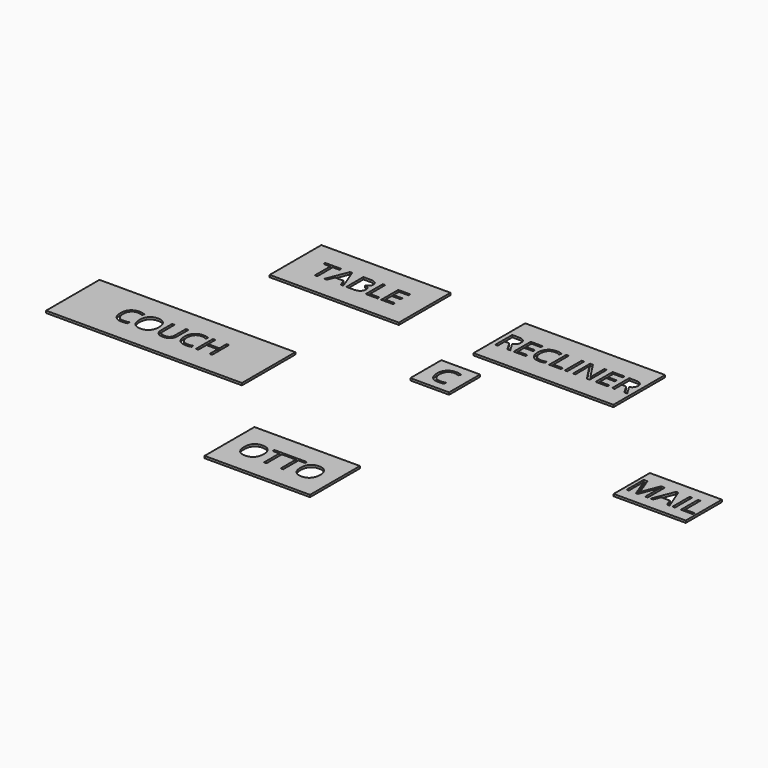
from build123d import *

# Parameters (mm, degrees)
F0_W     = 1524
F0_H     = 762
F1_DEPTH = 25.4
F0_W_2   = 1651
F0_W_3   = 29.26953125
F0_H_2   = 251.8502604167
F0_W_4   = 457.2
F0_H_3   = 457.2
F0_W_5   = 2311.4
F0_H_4   = 787.4
F0_W_6   = 1244.6
F0_H_5   = 736.6
F0_W_7   = 850.9
F0_H_6   = 533.4


with BuildPart() as f1:
    # F0 (on Top) → F1 (new body)
    with BuildSketch(Plane.XY):
        with Locations((-1647.601688385, 1585.1197662354)):
            Rectangle(F0_W, F0_H)
        Polygon((-2049.4927474128, 1683.9526655409), (-2049.4927474128, 1458.1197662354), (-2078.7622786628, 1458.1197662354), (-2078.7622786628, 1683.9526655409), (-2158.5231293572, 1683.9526655409), (-2158.5231293572, 1709.970026652), (-1969.7318967183, 1709.970026652), (-1969.7318967183, 1683.9526655409), align=None, mode=Mode.SUBTRACT)
        Polygon((-1743.1824175517, 1458.1197662354), (-1773.4992578295, 1458.1197662354), (-1804.863407135, 1538.2113460965), (-1905.7909244961, 1538.2113460965), (-1936.7692231072, 1458.1197662354), (-1966.4246050517, 1458.1197662354), (-1866.875125885, 1711.0173356798), (-1842.2358029683, 1711.0173356798), align=None, mode=Mode.SUBTRACT)
        with BuildLine():
            Line((-1708.5660981072, 1458.1197662354), (-1708.5660981072, 1709.970026652))
            Line((-1708.5660981072, 1709.970026652), (-1637.4042057461, 1709.970026652))
            add(Edge.make_bspline(
                [(-1637.4042057461, 1709.970026652), (-1587.2987369961, 1709.970026652), (-1564.8918359545, 1694.9769710965)],
                knots=[0, 0, 0, 1, 1, 1], degree=2))
            add(Edge.make_bspline(
                [(-1564.8918359545, 1694.9769710965), (-1542.4849349128, 1679.9839155409), (-1542.4849349128, 1647.6275787354)],
                knots=[0, 0, 0, 1, 1, 1], degree=2))
            add(Edge.make_bspline(
                [(-1542.4849349128, 1647.6275787354), (-1542.4849349128, 1625.1931169298), (-1554.9699609545, 1610.6410335965)],
                knots=[0, 0, 0, 1, 1, 1], degree=2))
            add(Edge.make_bspline(
                [(-1554.9699609545, 1610.6410335965), (-1567.4549869961, 1596.0889502631), (-1591.4328515795, 1591.7894710965)],
                knots=[0, 0, 0, 1, 1, 1], degree=2))
            Line((-1591.4328515795, 1591.7894710965), (-1591.4328515795, 1590.0807037354))
            add(Edge.make_bspline(
                [(-1591.4328515795, 1590.0807037354), (-1534.0513411628, 1580.2690717909), (-1534.0513411628, 1529.7777523465)],
                knots=[0, 0, 0, 1, 1, 1], degree=2))
            add(Edge.make_bspline(
                [(-1534.0513411628, 1529.7777523465), (-1534.0513411628, 1496.0433773465), (-1556.8716536628, 1477.0815717909)],
                knots=[0, 0, 0, 1, 1, 1], degree=2))
            add(Edge.make_bspline(
                [(-1556.8716536628, 1477.0815717909), (-1579.6919661628, 1458.1197662354), (-1620.7023828295, 1458.1197662354)],
                knots=[0, 0, 0, 1, 1, 1], degree=2))
            Line((-1620.7023828295, 1458.1197662354), (-1708.5660981072, 1458.1197662354))
        make_face(mode=Mode.SUBTRACT)
        Polygon((-1339.5825911628, 1458.1197662354), (-1479.9771224128, 1458.1197662354), (-1479.9771224128, 1709.970026652), (-1450.7075911628, 1709.970026652), (-1450.7075911628, 1484.6332210965), (-1339.5825911628, 1484.6332210965), align=None, mode=Mode.SUBTRACT)
        Polygon((-1156.468875885, 1484.3024919298), (-1156.468875885, 1458.1197662354), (-1296.863407135, 1458.1197662354), (-1296.863407135, 1709.970026652), (-1156.468875885, 1709.970026652), (-1156.468875885, 1683.9526655409), (-1267.593875885, 1683.9526655409), (-1267.593875885, 1602.813776652), (-1163.1937022739, 1602.813776652), (-1163.1937022739, 1576.9617801242), (-1267.593875885, 1576.9617801242), (-1267.593875885, 1484.3024919298), align=None, mode=Mode.SUBTRACT)
    extrude(amount=F1_DEPTH)


with BuildPart() as f1b:
    # F0 (on Top) → F1, piece 2 (new body)
    with BuildSketch(Plane.XY):
        with Locations((857.9120223522, 1539.6015224457)):
            Rectangle(F0_W_2, F0_H)
        with BuildLine():
            Line((166.7156247828, 1517.3324252235), (114.1296872828, 1517.3324252235))
            Line((114.1296872828, 1517.3324252235), (114.1296872828, 1412.6015224457))
            Line((114.1296872828, 1412.6015224457), (84.8601560328, 1412.6015224457))
            Line((84.8601560328, 1412.6015224457), (84.8601560328, 1664.4517828623))
            Line((84.8601560328, 1664.4517828623), (153.9274303383, 1664.4517828623))
            add(Edge.make_bspline(
                [(153.9274303383, 1664.4517828623), (200.2846351994, 1664.4517828623), (222.4159286022, 1646.7026509179)],
                knots=[0, 0, 0, 1, 1, 1], degree=2))
            add(Edge.make_bspline(
                [(222.4159286022, 1646.7026509179), (244.547222005, 1628.9535189735), (244.547222005, 1593.2898905012)],
                knots=[0, 0, 0, 1, 1, 1], degree=2))
            add(Edge.make_bspline(
                [(244.547222005, 1593.2898905012), (244.547222005, 1543.3497863346), (193.8905379772, 1525.7660189735)],
                knots=[0, 0, 0, 1, 1, 1], degree=2))
            Line((193.8905379772, 1525.7660189735), (262.2963539494, 1412.6015224457))
            Line((262.2963539494, 1412.6015224457), (227.680034505, 1412.6015224457))
            Line((227.680034505, 1412.6015224457), (166.7156247828, 1517.3324252235))
        make_face(mode=Mode.SUBTRACT)
        Polygon((443.3154511717, 1438.7842481401), (443.3154511717, 1412.6015224457), (302.9209199217, 1412.6015224457), (302.9209199217, 1664.4517828623), (443.3154511717, 1664.4517828623), (443.3154511717, 1638.4344217512), (332.1904511717, 1638.4344217512), (332.1904511717, 1557.2955328623), (436.5906247828, 1557.2955328623), (436.5906247828, 1531.4435363346), (332.1904511717, 1531.4435363346), (332.1904511717, 1438.7842481401), align=None, mode=Mode.SUBTRACT)
        with BuildLine():
            add(Edge.make_bspline(
                [(664.1322914494, 1628.4574252235), (635.5242185328, 1641.8519564735), (606.9161456161, 1641.8519564735)],
                knots=[0, 0, 0, 1, 1, 1], degree=2))
            add(Edge.make_bspline(
                [(606.9161456161, 1641.8519564735), (565.4096351994, 1641.8519564735), (541.3766490883, 1614.2085102929)],
                knots=[0, 0, 0, 1, 1, 1], degree=2))
            add(Edge.make_bspline(
                [(541.3766490883, 1614.2085102929), (517.3436629772, 1586.5650641123), (517.3436629772, 1538.4990918901)],
                knots=[0, 0, 0, 1, 1, 1], degree=2))
            add(Edge.make_bspline(
                [(517.3436629772, 1538.4990918901), (517.3436629772, 1489.1102030012), (540.5222654078, 1462.128215154)],
                knots=[0, 0, 0, 1, 1, 1], degree=2))
            add(Edge.make_bspline(
                [(540.5222654078, 1462.128215154), (563.7008678383, 1435.1462273068), (606.5854164494, 1435.1462273068)],
                knots=[0, 0, 0, 1, 1, 1], degree=2))
            add(Edge.make_bspline(
                [(606.5854164494, 1435.1462273068), (632.9335067272, 1435.1462273068), (666.723003255, 1444.6271300846)],
                knots=[0, 0, 0, 1, 1, 1], degree=2))
            Line((666.723003255, 1444.6271300846), (666.723003255, 1418.9956196679))
            add(Edge.make_bspline(
                [(666.723003255, 1418.9956196679), (640.5402775606, 1409.1288661957), (602.1205726994, 1409.1288661957)],
                knots=[0, 0, 0, 1, 1, 1], degree=2))
            add(Edge.make_bspline(
                [(602.1205726994, 1409.1288661957), (546.5029511717, 1409.1288661957), (516.2687931856, 1442.9183627235)],
                knots=[0, 0, 0, 1, 1, 1], degree=2))
            add(Edge.make_bspline(
                [(516.2687931856, 1442.9183627235), (486.0346351994, 1476.7078592512), (486.0346351994, 1538.8849425846)],
                knots=[0, 0, 0, 1, 1, 1], degree=2))
            add(Edge.make_bspline(
                [(486.0346351994, 1538.8849425846), (486.0346351994, 1577.8007411957), (500.5867185328, 1607.0702724457)],
                knots=[0, 0, 0, 1, 1, 1], degree=2))
            add(Edge.make_bspline(
                [(500.5867185328, 1607.0702724457), (515.1388018661, 1636.3398036957), (542.6168834633, 1652.1872429318)],
                knots=[0, 0, 0, 1, 1, 1], degree=2))
            add(Edge.make_bspline(
                [(542.6168834633, 1652.1872429318), (570.0949650606, 1668.0346821679), (607.3019963106, 1668.0346821679)],
                knots=[0, 0, 0, 1, 1, 1], degree=2))
            add(Edge.make_bspline(
                [(607.3019963106, 1668.0346821679), (646.879253255, 1668.0346821679), (676.5346351994, 1653.5928418901)],
                knots=[0, 0, 0, 1, 1, 1], degree=2))
            Line((676.5346351994, 1653.5928418901), (664.1322914494, 1628.4574252235))
        make_face(mode=Mode.SUBTRACT)
        Polygon((862.0736976994, 1412.6015224457), (721.6791664494, 1412.6015224457), (721.6791664494, 1664.4517828623), (750.9486976994, 1664.4517828623), (750.9486976994, 1439.1149773068), (862.0736976994, 1439.1149773068), align=None, mode=Mode.SUBTRACT)
        with Locations((919.4276473522, 1538.526652654)):
            Rectangle(F0_W_3, F0_H_2, mode=Mode.SUBTRACT)
        with BuildLine():
            Line((1199.8584199217, 1664.4517828623), (1199.8584199217, 1412.6015224457))
            Line((1199.8584199217, 1412.6015224457), (1166.4547740883, 1412.6015224457))
            Line((1166.4547740883, 1412.6015224457), (1028.8163192272, 1623.9374599457))
            Line((1028.8163192272, 1623.9374599457), (1027.4382810328, 1623.9374599457))
            add(Edge.make_bspline(
                [(1027.4382810328, 1623.9374599457), (1030.1943574217, 1586.7304286957), (1030.1943574217, 1555.7521300846)],
                knots=[0, 0, 0, 1, 1, 1], degree=2))
            Line((1030.1943574217, 1555.7521300846), (1030.1943574217, 1412.6015224457))
            Line((1030.1943574217, 1412.6015224457), (1003.1296872828, 1412.6015224457))
            Line((1003.1296872828, 1412.6015224457), (1003.1296872828, 1664.4517828623))
            Line((1003.1296872828, 1664.4517828623), (1036.2026039494, 1664.4517828623))
            Line((1036.2026039494, 1664.4517828623), (1173.5103296439, 1453.942668279))
            Line((1173.5103296439, 1453.942668279), (1174.8883678383, 1453.942668279))
            add(Edge.make_bspline(
                [(1174.8883678383, 1453.942668279), (1174.5576386717, 1458.5728766123), (1173.3449650606, 1483.8185363346)],
                knots=[0, 0, 0, 1, 1, 1], degree=2))
            add(Edge.make_bspline(
                [(1173.3449650606, 1483.8185363346), (1172.1322914494, 1509.0641960568), (1172.4630206161, 1519.923137029)],
                knots=[0, 0, 0, 1, 1, 1], degree=2))
            Line((1172.4630206161, 1519.923137029), (1172.4630206161, 1664.4517828623))
            Line((1172.4630206161, 1664.4517828623), (1199.8584199217, 1664.4517828623))
        make_face(mode=Mode.SUBTRACT)
        Polygon((1409.4855900606, 1438.7842481401), (1409.4855900606, 1412.6015224457), (1269.0910588106, 1412.6015224457), (1269.0910588106, 1664.4517828623), (1409.4855900606, 1664.4517828623), (1409.4855900606, 1638.4344217512), (1298.3605900606, 1638.4344217512), (1298.3605900606, 1557.2955328623), (1402.7607636717, 1557.2955328623), (1402.7607636717, 1531.4435363346), (1298.3605900606, 1531.4435363346), (1298.3605900606, 1438.7842481401), align=None, mode=Mode.SUBTRACT)
        with BuildLine():
            Line((1547.1240449217, 1517.3324252235), (1494.5381074217, 1517.3324252235))
            Line((1494.5381074217, 1517.3324252235), (1494.5381074217, 1412.6015224457))
            Line((1494.5381074217, 1412.6015224457), (1465.2685761717, 1412.6015224457))
            Line((1465.2685761717, 1412.6015224457), (1465.2685761717, 1664.4517828623))
            Line((1465.2685761717, 1664.4517828623), (1534.3358504772, 1664.4517828623))
            add(Edge.make_bspline(
                [(1534.3358504772, 1664.4517828623), (1580.6930553383, 1664.4517828623), (1602.8243487411, 1646.7026509179)],
                knots=[0, 0, 0, 1, 1, 1], degree=2))
            add(Edge.make_bspline(
                [(1602.8243487411, 1646.7026509179), (1624.9556421439, 1628.9535189735), (1624.9556421439, 1593.2898905012)],
                knots=[0, 0, 0, 1, 1, 1], degree=2))
            add(Edge.make_bspline(
                [(1624.9556421439, 1593.2898905012), (1624.9556421439, 1543.3497863346), (1574.2989581161, 1525.7660189735)],
                knots=[0, 0, 0, 1, 1, 1], degree=2))
            Line((1574.2989581161, 1525.7660189735), (1642.7047740883, 1412.6015224457))
            Line((1642.7047740883, 1412.6015224457), (1608.0884546439, 1412.6015224457))
            Line((1608.0884546439, 1412.6015224457), (1547.1240449217, 1517.3324252235))
        make_face(mode=Mode.SUBTRACT)
    extrude(amount=F1_DEPTH)


with BuildPart() as f1c:
    # F0 (on Top) → F1, piece 3 (new body)
    with BuildSketch(Plane.XY):
        with Locations((117.4639756944, 634.2692129135)):
            Rectangle(F0_W_4, F0_H_3)
        with BuildLine():
            add(Edge.make_bspline(
                [(199.6501736111, 723.1251156913), (171.0421006944, 736.5196469413), (142.4340277778, 736.5196469413)],
                knots=[0, 0, 0, 1, 1, 1], degree=2))
            add(Edge.make_bspline(
                [(142.4340277778, 736.5196469413), (100.9275173611, 736.5196469413), (76.89453125, 708.8762007607)],
                knots=[0, 0, 0, 1, 1, 1], degree=2))
            add(Edge.make_bspline(
                [(76.89453125, 708.8762007607), (52.8615451389, 681.2327545802), (52.8615451389, 633.166782358)],
                knots=[0, 0, 0, 1, 1, 1], degree=2))
            add(Edge.make_bspline(
                [(52.8615451389, 633.166782358), (52.8615451389, 583.7778934691), (76.0401475694, 556.7959056218)],
                knots=[0, 0, 0, 1, 1, 1], degree=2))
            add(Edge.make_bspline(
                [(76.0401475694, 556.7959056218), (99.21875, 529.8139177746), (142.1032986111, 529.8139177746)],
                knots=[0, 0, 0, 1, 1, 1], degree=2))
            add(Edge.make_bspline(
                [(142.1032986111, 529.8139177746), (168.4513888889, 529.8139177746), (202.2408854167, 539.2948205524)],
                knots=[0, 0, 0, 1, 1, 1], degree=2))
            Line((202.2408854167, 539.2948205524), (202.2408854167, 513.6633101357))
            add(Edge.make_bspline(
                [(202.2408854167, 513.6633101357), (176.0581597222, 503.7965566635), (137.6384548611, 503.7965566635)],
                knots=[0, 0, 0, 1, 1, 1], degree=2))
            add(Edge.make_bspline(
                [(137.6384548611, 503.7965566635), (82.0208333333, 503.7965566635), (51.7866753472, 537.5860531913)],
                knots=[0, 0, 0, 1, 1, 1], degree=2))
            add(Edge.make_bspline(
                [(51.7866753472, 537.5860531913), (21.5525173611, 571.3755497191), (21.5525173611, 633.5526330524)],
                knots=[0, 0, 0, 1, 1, 1], degree=2))
            add(Edge.make_bspline(
                [(21.5525173611, 633.5526330524), (21.5525173611, 672.4684316635), (36.1046006944, 701.7379629135)],
                knots=[0, 0, 0, 1, 1, 1], degree=2))
            add(Edge.make_bspline(
                [(36.1046006944, 701.7379629135), (50.6566840278, 731.0074941635), (78.134765625, 746.8549333996)],
                knots=[0, 0, 0, 1, 1, 1], degree=2))
            add(Edge.make_bspline(
                [(78.134765625, 746.8549333996), (105.6128472222, 762.7023726357), (142.8198784722, 762.7023726357)],
                knots=[0, 0, 0, 1, 1, 1], degree=2))
            add(Edge.make_bspline(
                [(142.8198784722, 762.7023726357), (182.3971354167, 762.7023726357), (212.0525173611, 748.260532358)],
                knots=[0, 0, 0, 1, 1, 1], degree=2))
            Line((212.0525173611, 748.260532358), (199.6501736111, 723.1251156913))
        make_face(mode=Mode.SUBTRACT)
    extrude(amount=F1_DEPTH)


with BuildPart() as f1d:
    # F0 (on Top) → F1, piece 4 (new body)
    with BuildSketch(Plane.XY):
        with Locations((-2417.1478431702, -246.4744561434)):
            Rectangle(F0_W_5, F0_H_4)
        with BuildLine():
            add(Edge.make_bspline(
                [(-2830.2010115729, -157.6185533656), (-2858.8090844896, -144.2240221156), (-2887.4171574063, -144.2240221156)],
                knots=[0, 0, 0, 1, 1, 1], degree=2))
            add(Edge.make_bspline(
                [(-2887.4171574063, -144.2240221156), (-2928.9236678229, -144.2240221156), (-2952.9566539341, -171.8674682962)],
                knots=[0, 0, 0, 1, 1, 1], degree=2))
            add(Edge.make_bspline(
                [(-2952.9566539341, -171.8674682962), (-2976.9896400452, -199.5109144767), (-2976.9896400452, -247.5768866989)],
                knots=[0, 0, 0, 1, 1, 1], degree=2))
            add(Edge.make_bspline(
                [(-2976.9896400452, -247.5768866989), (-2976.9896400452, -296.9657755878), (-2953.8110376146, -323.947763435)],
                knots=[0, 0, 0, 1, 1, 1], degree=2))
            add(Edge.make_bspline(
                [(-2953.8110376146, -323.947763435), (-2930.6324351841, -350.9297512823), (-2887.7478865729, -350.9297512823)],
                knots=[0, 0, 0, 1, 1, 1], degree=2))
            add(Edge.make_bspline(
                [(-2887.7478865729, -350.9297512823), (-2861.3997962952, -350.9297512823), (-2827.6102997674, -341.4488485045)],
                knots=[0, 0, 0, 1, 1, 1], degree=2))
            Line((-2827.6102997674, -341.4488485045), (-2827.6102997674, -367.0803589212))
            add(Edge.make_bspline(
                [(-2827.6102997674, -367.0803589212), (-2853.7930254618, -376.9471123934), (-2892.2127303229, -376.9471123934)],
                knots=[0, 0, 0, 1, 1, 1], degree=2))
            add(Edge.make_bspline(
                [(-2892.2127303229, -376.9471123934), (-2947.8303518507, -376.9471123934), (-2978.0645098368, -343.1576158656)],
                knots=[0, 0, 0, 1, 1, 1], degree=2))
            add(Edge.make_bspline(
                [(-2978.0645098368, -343.1576158656), (-3008.2986678229, -309.3681193378), (-3008.2986678229, -247.1910360045)],
                knots=[0, 0, 0, 1, 1, 1], degree=2))
            add(Edge.make_bspline(
                [(-3008.2986678229, -247.1910360045), (-3008.2986678229, -208.2752373934), (-2993.7465844896, -179.0057061434)],
                knots=[0, 0, 0, 1, 1, 1], degree=2))
            add(Edge.make_bspline(
                [(-2993.7465844896, -179.0057061434), (-2979.1945011563, -149.7361748934), (-2951.7164195591, -133.8887356573)],
                knots=[0, 0, 0, 1, 1, 1], degree=2))
            add(Edge.make_bspline(
                [(-2951.7164195591, -133.8887356573), (-2924.2383379618, -118.0412964212), (-2887.0313067118, -118.0412964212)],
                knots=[0, 0, 0, 1, 1, 1], degree=2))
            add(Edge.make_bspline(
                [(-2887.0313067118, -118.0412964212), (-2847.4540497674, -118.0412964212), (-2817.7986678229, -132.4831366989)],
                knots=[0, 0, 0, 1, 1, 1], degree=2))
            Line((-2817.7986678229, -132.4831366989), (-2830.2010115729, -157.6185533656))
        make_face(mode=Mode.SUBTRACT)
        with BuildLine():
            add(Edge.make_bspline(
                [(-2584.5243622674, -152.1064005878), (-2554.0421574063, -186.5573554489), (-2554.0421574063, -247.1910360045)],
                knots=[0, 0, 0, 1, 1, 1], degree=2))
            add(Edge.make_bspline(
                [(-2554.0421574063, -247.1910360045), (-2554.0421574063, -307.6593519767), (-2584.6346053229, -342.303232185)],
                knots=[0, 0, 0, 1, 1, 1], degree=2))
            add(Edge.make_bspline(
                [(-2584.6346053229, -342.303232185), (-2615.2270532396, -376.9471123934), (-2669.6320011563, -376.9471123934)],
                knots=[0, 0, 0, 1, 1, 1], degree=2))
            add(Edge.make_bspline(
                [(-2669.6320011563, -376.9471123934), (-2725.2496226841, -376.9471123934), (-2755.4837806702, -342.9095689906)],
                knots=[0, 0, 0, 1, 1, 1], degree=2))
            add(Edge.make_bspline(
                [(-2755.4837806702, -342.9095689906), (-2785.7179386563, -308.8720255878), (-2785.7179386563, -246.8603068378)],
                knots=[0, 0, 0, 1, 1, 1], degree=2))
            add(Edge.make_bspline(
                [(-2785.7179386563, -246.8603068378), (-2785.7179386563, -185.3446818378), (-2755.4010983785, -151.5000637823)],
                knots=[0, 0, 0, 1, 1, 1], degree=2))
            add(Edge.make_bspline(
                [(-2755.4010983785, -151.5000637823), (-2725.0842581007, -117.6554457267), (-2669.3012719896, -117.6554457267)],
                knots=[0, 0, 0, 1, 1, 1], degree=2))
            add(Edge.make_bspline(
                [(-2669.3012719896, -117.6554457267), (-2615.0065671285, -117.6554457267), (-2584.5243622674, -152.1064005878)],
                knots=[0, 0, 0, 1, 1, 1], degree=2))
        make_face(mode=Mode.SUBTRACT)
        with BuildLine():
            Line((-2337.0287025452, -121.6241957267), (-2307.7591712952, -121.6241957267))
            Line((-2307.7591712952, -121.6241957267), (-2307.7591712952, -284.5634318378))
            add(Edge.make_bspline(
                [(-2307.7591712952, -284.5634318378), (-2307.7591712952, -327.66846656), (-2333.7765324063, -352.3077894767)],
                knots=[0, 0, 0, 1, 1, 1], degree=2))
            add(Edge.make_bspline(
                [(-2333.7765324063, -352.3077894767), (-2359.7938935174, -376.9471123934), (-2405.2691539341, -376.9471123934)],
                knots=[0, 0, 0, 1, 1, 1], degree=2))
            add(Edge.make_bspline(
                [(-2405.2691539341, -376.9471123934), (-2450.7444143507, -376.9471123934), (-2475.6317841424, -352.1148641295)],
                knots=[0, 0, 0, 1, 1, 1], degree=2))
            add(Edge.make_bspline(
                [(-2475.6317841424, -352.1148641295), (-2500.5191539341, -327.2826158656), (-2500.5191539341, -283.9019735045)],
                knots=[0, 0, 0, 1, 1, 1], degree=2))
            Line((-2500.5191539341, -283.9019735045), (-2500.5191539341, -121.6241957267))
            Line((-2500.5191539341, -121.6241957267), (-2471.1945011563, -121.6241957267))
            Line((-2471.1945011563, -121.6241957267), (-2471.1945011563, -285.9414700323))
            add(Edge.make_bspline(
                [(-2471.1945011563, -285.9414700323), (-2471.1945011563, -317.4709839212), (-2453.9690237257, -334.365732185)],
                knots=[0, 0, 0, 1, 1, 1], degree=2))
            add(Edge.make_bspline(
                [(-2453.9690237257, -334.365732185), (-2436.7435462952, -351.2604804489), (-2403.3399004618, -351.2604804489)],
                knots=[0, 0, 0, 1, 1, 1], degree=2))
            add(Edge.make_bspline(
                [(-2403.3399004618, -351.2604804489), (-2371.4796574063, -351.2604804489), (-2354.2541799757, -334.2830498934)],
                knots=[0, 0, 0, 1, 1, 1], degree=2))
            add(Edge.make_bspline(
                [(-2354.2541799757, -334.2830498934), (-2337.0287025452, -317.3056193378), (-2337.0287025452, -285.6107408656)],
                knots=[0, 0, 0, 1, 1, 1], degree=2))
            Line((-2337.0287025452, -285.6107408656), (-2337.0287025452, -121.6241957267))
        make_face(mode=Mode.SUBTRACT)
        with BuildLine():
            add(Edge.make_bspline(
                [(-2076.0833900452, -157.6185533656), (-2104.6914629618, -144.2240221156), (-2133.2995358785, -144.2240221156)],
                knots=[0, 0, 0, 1, 1, 1], degree=2))
            add(Edge.make_bspline(
                [(-2133.2995358785, -144.2240221156), (-2174.8060462952, -144.2240221156), (-2198.8390324063, -171.8674682962)],
                knots=[0, 0, 0, 1, 1, 1], degree=2))
            add(Edge.make_bspline(
                [(-2198.8390324063, -171.8674682962), (-2222.8720185174, -199.5109144767), (-2222.8720185174, -247.5768866989)],
                knots=[0, 0, 0, 1, 1, 1], degree=2))
            add(Edge.make_bspline(
                [(-2222.8720185174, -247.5768866989), (-2222.8720185174, -296.9657755878), (-2199.6934160868, -323.947763435)],
                knots=[0, 0, 0, 1, 1, 1], degree=2))
            add(Edge.make_bspline(
                [(-2199.6934160868, -323.947763435), (-2176.5148136563, -350.9297512823), (-2133.6302650452, -350.9297512823)],
                knots=[0, 0, 0, 1, 1, 1], degree=2))
            add(Edge.make_bspline(
                [(-2133.6302650452, -350.9297512823), (-2107.2821747674, -350.9297512823), (-2073.4926782396, -341.4488485045)],
                knots=[0, 0, 0, 1, 1, 1], degree=2))
            Line((-2073.4926782396, -341.4488485045), (-2073.4926782396, -367.0803589212))
            add(Edge.make_bspline(
                [(-2073.4926782396, -367.0803589212), (-2099.6754039341, -376.9471123934), (-2138.0951087952, -376.9471123934)],
                knots=[0, 0, 0, 1, 1, 1], degree=2))
            add(Edge.make_bspline(
                [(-2138.0951087952, -376.9471123934), (-2193.7127303229, -376.9471123934), (-2223.9468883091, -343.1576158656)],
                knots=[0, 0, 0, 1, 1, 1], degree=2))
            add(Edge.make_bspline(
                [(-2223.9468883091, -343.1576158656), (-2254.1810462952, -309.3681193378), (-2254.1810462952, -247.1910360045)],
                knots=[0, 0, 0, 1, 1, 1], degree=2))
            add(Edge.make_bspline(
                [(-2254.1810462952, -247.1910360045), (-2254.1810462952, -208.2752373934), (-2239.6289629618, -179.0057061434)],
                knots=[0, 0, 0, 1, 1, 1], degree=2))
            add(Edge.make_bspline(
                [(-2239.6289629618, -179.0057061434), (-2225.0768796285, -149.7361748934), (-2197.5987980313, -133.8887356573)],
                knots=[0, 0, 0, 1, 1, 1], degree=2))
            add(Edge.make_bspline(
                [(-2197.5987980313, -133.8887356573), (-2170.1207164341, -118.0412964212), (-2132.9136851841, -118.0412964212)],
                knots=[0, 0, 0, 1, 1, 1], degree=2))
            add(Edge.make_bspline(
                [(-2132.9136851841, -118.0412964212), (-2093.3364282396, -118.0412964212), (-2063.6810462952, -132.4831366989)],
                knots=[0, 0, 0, 1, 1, 1], degree=2))
            Line((-2063.6810462952, -132.4831366989), (-2076.0833900452, -157.6185533656))
        make_face(mode=Mode.SUBTRACT)
        Polygon((-1827.3199351841, -121.6241957267), (-1827.3199351841, -373.4744561434), (-1856.5894664341, -373.4744561434), (-1856.5894664341, -254.9631714212), (-1989.2669837952, -254.9631714212), (-1989.2669837952, -373.4744561434), (-2018.5365150452, -373.4744561434), (-2018.5365150452, -121.6241957267), (-1989.2669837952, -121.6241957267), (-1989.2669837952, -228.7804457267), (-1856.5894664341, -228.7804457267), (-1856.5894664341, -121.6241957267), align=None, mode=Mode.SUBTRACT)
    extrude(amount=F1_DEPTH)


with BuildPart() as f1e:
    # F0 (on Top) → F1, piece 5 (new body)
    with BuildSketch(Plane.XY):
        with Locations((0, -1622.7345724106)):
            Rectangle(F0_W_6, F0_H_5)
        with BuildLine():
            add(Edge.make_bspline(
                [(-247.8539496528, -1528.366516855), (-217.3717447917, -1562.8174717161), (-217.3717447917, -1623.4511522717)],
                knots=[0, 0, 0, 1, 1, 1], degree=2))
            add(Edge.make_bspline(
                [(-217.3717447917, -1623.4511522717), (-217.3717447917, -1683.9194682439), (-247.9641927083, -1718.5633484523)],
                knots=[0, 0, 0, 1, 1, 1], degree=2))
            add(Edge.make_bspline(
                [(-247.9641927083, -1718.5633484523), (-278.556640625, -1753.2072286606), (-332.9615885417, -1753.2072286606)],
                knots=[0, 0, 0, 1, 1, 1], degree=2))
            add(Edge.make_bspline(
                [(-332.9615885417, -1753.2072286606), (-388.5792100694, -1753.2072286606), (-418.8133680556, -1719.1696852578)],
                knots=[0, 0, 0, 1, 1, 1], degree=2))
            add(Edge.make_bspline(
                [(-418.8133680556, -1719.1696852578), (-449.0475260417, -1685.132141855), (-449.0475260417, -1623.120423105)],
                knots=[0, 0, 0, 1, 1, 1], degree=2))
            add(Edge.make_bspline(
                [(-449.0475260417, -1623.120423105), (-449.0475260417, -1561.604798105), (-418.7306857639, -1527.7601800495)],
                knots=[0, 0, 0, 1, 1, 1], degree=2))
            add(Edge.make_bspline(
                [(-418.7306857639, -1527.7601800495), (-388.4138454861, -1493.9155619939), (-332.630859375, -1493.9155619939)],
                knots=[0, 0, 0, 1, 1, 1], degree=2))
            add(Edge.make_bspline(
                [(-332.630859375, -1493.9155619939), (-278.3361545139, -1493.9155619939), (-247.8539496528, -1528.366516855)],
                knots=[0, 0, 0, 1, 1, 1], degree=2))
        make_face(mode=Mode.SUBTRACT)
        Polygon((-83.7571614583, -1523.901673105), (-83.7571614583, -1749.7345724106), (-113.0266927083, -1749.7345724106), (-113.0266927083, -1523.901673105), (-192.7875434028, -1523.901673105), (-192.7875434028, -1497.8843119939), (-3.9963107639, -1497.8843119939), (-3.9963107639, -1523.901673105), align=None, mode=Mode.SUBTRACT)
        Polygon((111.4281684028, -1523.901673105), (111.4281684028, -1749.7345724106), (82.1586371528, -1749.7345724106), (82.1586371528, -1523.901673105), (2.3977864583, -1523.901673105), (2.3977864583, -1497.8843119939), (191.1890190972, -1497.8843119939), (191.1890190972, -1523.901673105), align=None, mode=Mode.SUBTRACT)
        with BuildLine():
            add(Edge.make_bspline(
                [(417.2424045139, -1528.366516855), (447.724609375, -1562.8174717161), (447.724609375, -1623.4511522717)],
                knots=[0, 0, 0, 1, 1, 1], degree=2))
            add(Edge.make_bspline(
                [(447.724609375, -1623.4511522717), (447.724609375, -1683.9194682439), (417.1321614583, -1718.5633484523)],
                knots=[0, 0, 0, 1, 1, 1], degree=2))
            add(Edge.make_bspline(
                [(417.1321614583, -1718.5633484523), (386.5397135417, -1753.2072286606), (332.134765625, -1753.2072286606)],
                knots=[0, 0, 0, 1, 1, 1], degree=2))
            add(Edge.make_bspline(
                [(332.134765625, -1753.2072286606), (276.5171440972, -1753.2072286606), (246.2829861111, -1719.1696852578)],
                knots=[0, 0, 0, 1, 1, 1], degree=2))
            add(Edge.make_bspline(
                [(246.2829861111, -1719.1696852578), (216.048828125, -1685.132141855), (216.048828125, -1623.120423105)],
                knots=[0, 0, 0, 1, 1, 1], degree=2))
            add(Edge.make_bspline(
                [(216.048828125, -1623.120423105), (216.048828125, -1561.604798105), (246.3656684028, -1527.7601800495)],
                knots=[0, 0, 0, 1, 1, 1], degree=2))
            add(Edge.make_bspline(
                [(246.3656684028, -1527.7601800495), (276.6825086806, -1493.9155619939), (332.4654947917, -1493.9155619939)],
                knots=[0, 0, 0, 1, 1, 1], degree=2))
            add(Edge.make_bspline(
                [(332.4654947917, -1493.9155619939), (386.7601996528, -1493.9155619939), (417.2424045139, -1528.366516855)],
                knots=[0, 0, 0, 1, 1, 1], degree=2))
        make_face(mode=Mode.SUBTRACT)
    extrude(amount=F1_DEPTH)


with BuildPart() as f1f:
    # F0 (on Top) → F1, piece 6 (new body)
    with BuildSketch(Plane.XY):
        with Locations((3221.0982261234, 38.0428324938)):
            Rectangle(F0_W_7, F0_H_6)
        with BuildLine():
            Line((2971.7835559845, -88.9571675062), (2948.1915420956, -88.9571675062))
            Line((2948.1915420956, -88.9571675062), (2862.7531740401, 134.2850199938))
            Line((2862.7531740401, 134.2850199938), (2861.3751358456, 134.2850199938))
            add(Edge.make_bspline(
                [(2861.3751358456, 134.2850199938), (2863.8004830678, 107.7715651327), (2863.8004830678, 71.225992216)],
                knots=[0, 0, 0, 1, 1, 1], degree=2))
            Line((2863.8004830678, 71.225992216), (2863.8004830678, -88.9571675062))
            Line((2863.8004830678, -88.9571675062), (2836.7358129289, -88.9571675062))
            Line((2836.7358129289, -88.9571675062), (2836.7358129289, 162.8930929104))
            Line((2836.7358129289, 162.8930929104), (2880.8330351512, 162.8930929104))
            Line((2880.8330351512, 162.8930929104), (2960.5938858456, -44.859945284))
            Line((2960.5938858456, -44.859945284), (2961.9719240401, -44.859945284))
            Line((2961.9719240401, -44.859945284), (3042.3942330678, 162.8930929104))
            Line((3042.3942330678, 162.8930929104), (3086.1607261234, 162.8930929104))
            Line((3086.1607261234, 162.8930929104), (3086.1607261234, -88.9571675062))
            Line((3086.1607261234, -88.9571675062), (3056.8911948734, -88.9571675062))
            Line((3056.8911948734, -88.9571675062), (3056.8911948734, 73.3206102716))
            add(Edge.make_bspline(
                [(3056.8911948734, 73.3206102716), (3056.8911948734, 101.2121033271), (3059.3165420956, 133.9542908271)],
                knots=[0, 0, 0, 1, 1, 1], degree=2))
            Line((3059.3165420956, 133.9542908271), (3057.9385039012, 133.9542908271))
            Line((3057.9385039012, 133.9542908271), (2971.7835559845, -88.9571675062))
        make_face(mode=Mode.SUBTRACT)
        Polygon((3343.8538684845, -88.9571675062), (3313.5370282067, -88.9571675062), (3282.1728789012, -8.8655876451), (3181.2453615401, -8.8655876451), (3150.2670629289, -88.9571675062), (3120.6116809845, -88.9571675062), (3220.1611601512, 163.9404019382), (3244.8004830678, 163.9404019382), align=None, mode=Mode.SUBTRACT)
        with Locations((3393.1049535539, 36.9679627021)):
            Rectangle(F0_W_3, F0_H_2, mode=Mode.SUBTRACT)
        Polygon((3617.2015247345, -88.9571675062), (3476.8069934845, -88.9571675062), (3476.8069934845, 162.8930929104), (3506.0765247345, 162.8930929104), (3506.0765247345, -62.4437126451), (3617.2015247345, -62.4437126451), align=None, mode=Mode.SUBTRACT)
    extrude(amount=F1_DEPTH)


solid = Compound([f1.part, f1b.part, f1c.part, f1d.part, f1e.part, f1f.part])
